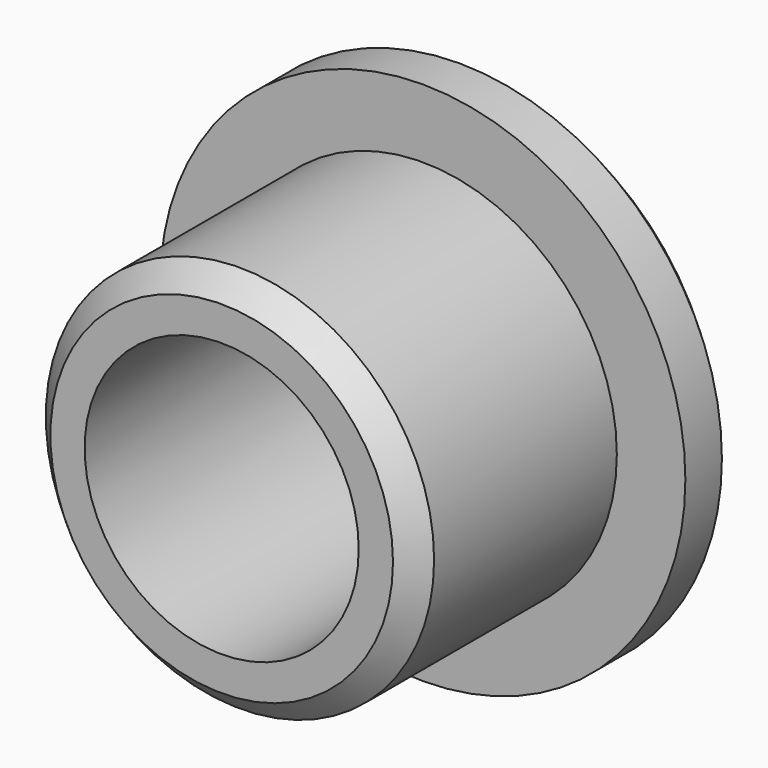
from build123d import *

# Parameters (mm, degrees)
F0_R     = 11.5
F0_R_2   = 8.5
F1_DEPTH = 3
F0_R_3   = 6
F2_DEPTH = 14
F3_SIZE  = 1


with BuildPart() as f1:
    # F0 (on Front) → F1 (new body)
    with BuildSketch(Plane.XZ):
        Circle(F0_R)
        Circle(F0_R_2, mode=Mode.SUBTRACT)
    extrude(amount=F1_DEPTH)

    # F0 (on Front) → F2 (join)
    with BuildSketch(Plane.XZ):
        Circle(F0_R_2)
        Circle(F0_R_3, mode=Mode.SUBTRACT)
    extrude(amount=F2_DEPTH)

    # F3
    f3_edges = [f1.edges().sort_by_distance(p)[0] for p in [
        (-8.5, -14, 0),
        (-11.5, 0, 0),
    ]]
    chamfer(f3_edges, length=F3_SIZE)


solid = f1.part
